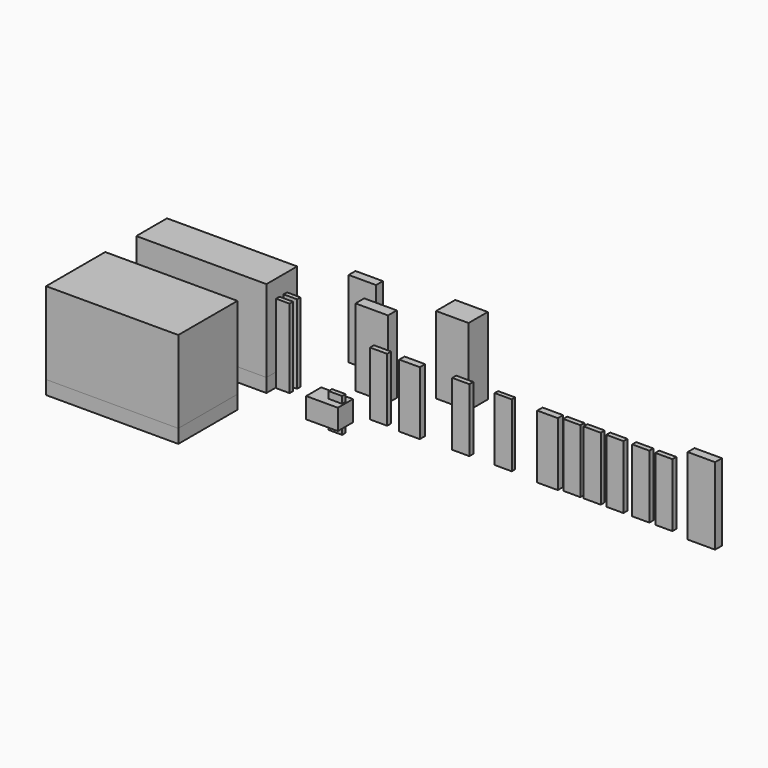
from build123d import *

# Parameters (mm, degrees)
F0_W      = 401.32
F0_H      = 127
F1_DEPTH  = 2336.8
F2_W      = 3861.816
F2_H      = 1138.936
F2_W_2    = 553.72
F2_H_2    = 279.4
F3_DEPTH  = 406.4
F4_W      = 553.72
F4_H      = 279.4
F5_DEPTH  = 406.4
F6_W      = 939.8
F6_H      = 558.8
F6_W_2    = 401.32
F6_H_2    = 127
F7_DEPTH  = 609.6
F8_DEPTH  = 203.2
F9_W      = 401.32
F9_H      = 127
F10_DEPTH = 203.2
F11_DEPTH = 2438.4
F12_DEPTH = 2438.4
F13_W     = 965.2
F13_H     = 323.85
F14_DEPTH = 2286
F15_W     = 812.8
F15_H     = 254
F16_DEPTH = 2286
F17_W     = 609.6
F17_H     = 196.85
F18_DEPTH = 1879.6
F19_W     = 401.32
F19_H     = 127
F20_DEPTH = 2336.8
F21_W     = 965.2
F21_H     = 711.2
F22_DEPTH = 2286
F23_W     = 508
F23_H     = 146.05
F24_DEPTH = 1879.6
F26_W     = 508
F26_H     = 127
F27_DEPTH = 1879.6
F28_W     = 609.6
F28_H     = 196.85
F29_DEPTH = 1879.6
F30_W     = 508
F30_H     = 146.05
F31_DEPTH = 1879.6
F32_W     = 508
F32_H     = 146.05
F33_DEPTH = 1879.6
F34_W     = 812.8
F34_H     = 254
F35_DEPTH = 2286


with BuildPart() as f1:
    # F0 (on Top) → F1 (new body)
    with BuildSketch(Plane.XY):
        with Locations((200.66, 63.5)):
            Rectangle(F0_W, F0_H)
    extrude(amount=F1_DEPTH)


with BuildPart() as f3:
    # F2 (on Top) → F3 (new body)
    with BuildSketch(Plane.XY):
        with Locations((-2438.908, 569.468)):
            Rectangle(F2_W, F2_H)
        with Locations((-1756.156, 783.336)):
            Rectangle(F2_W_2, F2_H_2, mode=Mode.SUBTRACT)
    extrude(amount=-F3_DEPTH)


with BuildPart() as f5:
    # F4 (on Top) → F5 (new body)
    with BuildSketch(Plane.XY):
        Polygon((-508, -3269.234), (-508, -1524), (-508, -1075.69), (-2581.402, -1075.69), (-4430.776, -1075.69), (-4430.776, -3269.234), align=None)
        with Locations((-1817.116, -1431.29)):
            Rectangle(F4_W, F4_H, mode=Mode.SUBTRACT)
    extrude(amount=-F5_DEPTH)


with BuildPart() as f7:
    # F6 (on Top) → F7 (new body)
    with BuildSketch(Plane.XY):
        with Locations((1993.9, -787.4)):
            Rectangle(F6_W, F6_H)
        with Locations((2217.42, -787.4)):
            Rectangle(F6_W_2, F6_H_2, mode=Mode.SUBTRACT)
        with Locations((2217.42, -787.4)):
            Rectangle(F6_W_2, F6_H_2)
    extrude(amount=F7_DEPTH)

    # F6 (on Top) → F8 (join)
    with BuildSketch(Plane.XY):
        with Locations((2217.42, -787.4)):
            Rectangle(F6_W_2, F6_H_2)
    extrude(amount=-F8_DEPTH)

    # F9 (on face) → F10 (join)
    with BuildSketch(Plane.XY.offset(609.6)):
        with Locations((2217.42, -787.4)):
            Rectangle(F9_W, F9_H)
    extrude(amount=F10_DEPTH)


with BuildPart() as f11:
    # F2 (on Top) → F11 (new body)
    with BuildSketch(Plane.XY):
        with Locations((-2438.908, 569.468)):
            Rectangle(F2_W, F2_H)
        with Locations((-1756.156, 783.336)):
            Rectangle(F2_W_2, F2_H_2, mode=Mode.SUBTRACT)
        with Locations((-1756.156, 783.336)):
            Rectangle(F2_W_2, F2_H_2)
    extrude(amount=F11_DEPTH)


with BuildPart() as f12:
    # F4 (on Top) → F12 (new body)
    with BuildSketch(Plane.XY):
        Polygon((-508, -3269.234), (-508, -1524), (-508, -1075.69), (-2581.402, -1075.69), (-4430.776, -1075.69), (-4430.776, -3269.234), align=None)
        with Locations((-1817.116, -1431.29)):
            Rectangle(F4_W, F4_H, mode=Mode.SUBTRACT)
        with Locations((-1817.116, -1431.29)):
            Rectangle(F4_W, F4_H)
    extrude(amount=F12_DEPTH)


with BuildPart() as f14:
    # F13 (on Top) → F14 (new body)
    with BuildSketch(Plane.XY):
        with Locations((2006.6, 923.925)):
            Rectangle(F13_W, F13_H)
    extrude(amount=F14_DEPTH)


with BuildPart() as f16:
    # F15 (on Top) → F16 (new body)
    with BuildSketch(Plane.XY):
        with Locations((914.4, 1905)):
            Rectangle(F15_W, F15_H)
    extrude(amount=F16_DEPTH)


with BuildPart() as f18:
    # F17 (on Top) → F18 (new body)
    with BuildSketch(Plane.XY):
        with Locations((3893.7613628387, -98.425)):
            Rectangle(F17_W, F17_H)
    extrude(amount=F18_DEPTH)


with BuildPart() as f20:
    # F19 (on Top) → F20 (new body)
    with BuildSketch(Plane.XY):
        with Locations((200.66, -215.9)):
            Rectangle(F19_W, F19_H)
    extrude(amount=F20_DEPTH)


with BuildPart() as f22:
    # F21 (on Top) → F22 (new body)
    with BuildSketch(Plane.XY):
        with Locations((3702.0533348083, 1985.4912763596)):
            Rectangle(F21_W, F21_H)
    extrude(amount=F22_DEPTH)


with BuildPart() as f24:
    # F23 (on Top) → F24 (new body)
    with BuildSketch(Plane.XY):
        with Locations((2935.1830997467, -73.025)):
            Rectangle(F23_W, F23_H)
    extrude(amount=F24_DEPTH)


with BuildPart() as f25_1:
    # F25: copy of F24
    add(f24.part.moved(Location((2438.4, 0, 0))))


with BuildPart() as f27:
    # F26 (on Top) → F27 (new body)
    with BuildSketch(Plane.XY):
        with Locations((6618.6364212036, -63.5)):
            Rectangle(F26_W, F26_H)
    extrude(amount=F27_DEPTH)


with BuildPart() as f29:
    # F28 (on Top) → F29 (new body)
    with BuildSketch(Plane.XY):
        with Locations((7987.7900741577, -98.425)):
            Rectangle(F28_W, F28_H)
    extrude(amount=F29_DEPTH)


with BuildPart() as f31:
    # F30 (on Top) → F31 (new body)
    with BuildSketch(Plane.XY):
        with Locations((8668.2560958862, -73.025)):
            Rectangle(F30_W, F30_H)
    extrude(amount=F31_DEPTH)


with BuildPart() as f33:
    # F32 (on Top) → F33 (new body)
    with BuildSketch(Plane.XY):
        with Locations((9274.0328826904, -73.025)):
            Rectangle(F32_W, F32_H)
    extrude(amount=F33_DEPTH)


with BuildPart() as f33b:
    # F32 (on Top) → F33, piece 2 (new body)
    with BuildSketch(Plane.XY):
        with Locations((9944.9446716309, -73.025)):
            Rectangle(F32_W, F32_H)
    extrude(amount=F33_DEPTH)


with BuildPart() as f33c:
    # F32 (on Top) → F33, piece 3 (new body)
    with BuildSketch(Plane.XY):
        with Locations((10714.1440429688, -73.025)):
            Rectangle(F32_W, F32_H)
    extrude(amount=F33_DEPTH)


with BuildPart() as f33d:
    # F32 (on Top) → F33, piece 4 (new body)
    with BuildSketch(Plane.XY):
        with Locations((11397.8770294189, -73.025)):
            Rectangle(F32_W, F32_H)
    extrude(amount=F33_DEPTH)


with BuildPart() as f35:
    # F34 (on Top) → F35 (new body)
    with BuildSketch(Plane.XY):
        with Locations((12598.4, -127)):
            Rectangle(F34_W, F34_H)
    extrude(amount=F35_DEPTH)


solid = Compound([f1.part, f3.part, f5.part, f7.part, f11.part, f12.part, f14.part, f16.part, f18.part, f20.part, f22.part, f24.part, f25_1.part, f27.part, f29.part, f31.part, f33.part, f33b.part, f33c.part, f33d.part, f35.part])
